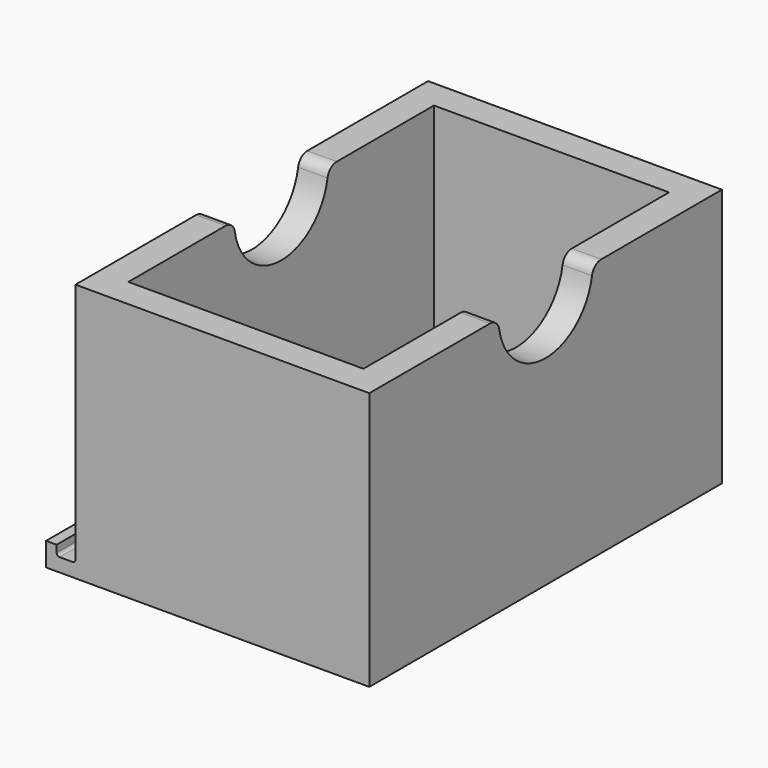
from build123d import *

# Parameters (mm, degrees)
F1_DEPTH = 75
F2_R     = 0.5
F3_W     = 50
F3_H     = 40
F4_DEPTH = 75
F5_T     = -5
F6_R     = 10
F7_DEPTH = 50
F8_R     = 2


with BuildPart() as f1:
    # F0 (on Front) → F1 (new body)
    with BuildSketch(Plane.XZ):
        Polygon((25, 4), (-25, 4), (-25, 2.3), (-25, 0), (25, 0), align=None)
        Polygon((-25, 0), (-25, 2.3), (-28.2, 2.3), (-28.2, 4), (-30, 4), (-30, 0), align=None)
    extrude(amount=F1_DEPTH)

    # F2
    f2_edges = [f1.edges().sort_by_distance(p)[0] for p in [
        (-25, -37.5, 2.3),
        (-28.2, -37.5, 2.3),
    ]]
    fillet(f2_edges, radius=F2_R)

    # F3 (on Front) → F4 (join)
    with BuildSketch(Plane.XZ):
        with Locations((0, 24)):
            Rectangle(F3_W, F3_H)
    extrude(amount=F4_DEPTH)

    # F5
    f5_openings = [f1.faces().sort_by_distance(p)[0] for p in [
        (0, -37.5, 44),
    ]]
    offset(amount=F5_T, openings=f5_openings)

    # F6 (on face) → F7 (cut, through all)
    with BuildSketch(Plane(origin=(-25, 0, 0), x_dir=(0, -1, 0), z_dir=(-1, 0, 0))):
        with Locations((37.5, 44)):
            Circle(F6_R)
    extrude(amount=-F7_DEPTH, mode=Mode.SUBTRACT)

    # F8
    f8_edges = [f1.edges().sort_by_distance(p)[0] for p in [
        (22.5, -47.5, 44),
        (-22.5, -47.5, 44),
        (-22.5, -27.5, 44),
        (22.5, -27.5, 44),
    ]]
    fillet(f8_edges, radius=F8_R)


solid = f1.part
